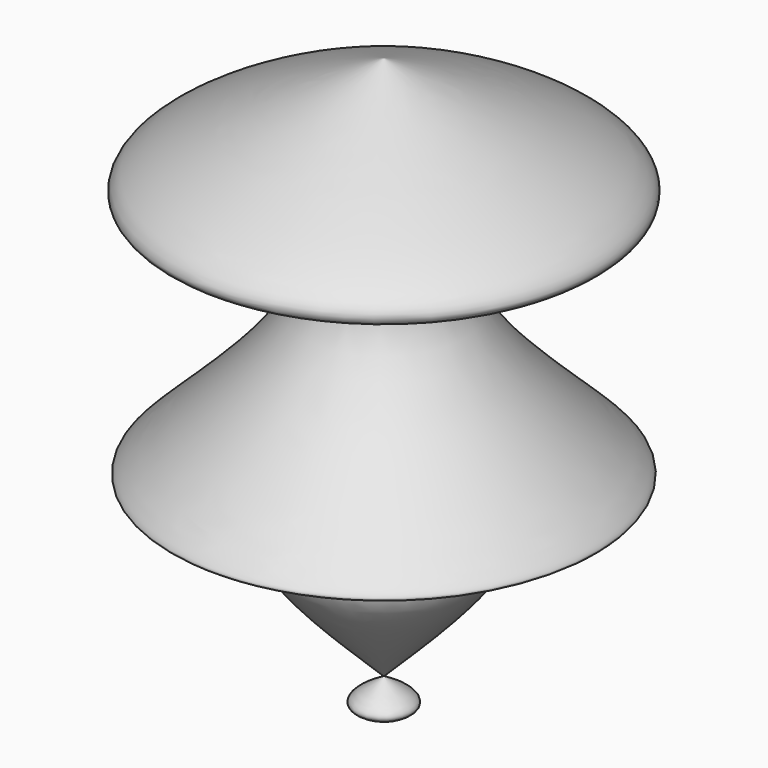
from build123d import *


with BuildPart() as f1:
    # F0 (on Front) → F1 (revolve)
    with BuildSketch(Plane.XZ):
        with BuildLine():
            add(Edge.make_bspline(
                [(0, -76.370537281), (-16.0207875739, -60.5784372992), (-37.6224373403, -39.2851387451), (-13.7985377454, -35.7636424479), (-59.9069397284, -28.1912365888), (-60.2744003148, -23.9233151762), (13.9454492687, 37.6344240351), (-92.9161026921, 36.9201548235), (-33.3799674134, 62.4717348571), (0, 76.7976716161)],
                knots=[0, 0, 0, 0, 0.1723347452, 0.2323677779, 0.3843272668, 0.4225830461, 0.6251850095, 0.7898534712, 1, 1, 1, 1], degree=3))
            Line((0, -76.370537281), (0, 76.7976716161))
        make_face()
    revolve(axis=Axis((0, 0, 0.2135671675), (0, 0, 1)))

    # F2 (on Right) → F3 (revolve)
    with BuildSketch(Plane.YZ):
        with BuildLine():
            add(Edge.make_bspline(
                [(0, -86.2140357494), (3.8821867163, -85.2940249369), (12.0014581241, -83.3698986568), (4.1153875856, -78.7043274523), (0, -76.2695744634)],
                knots=[0, 0, 0, 0, 0.4781447154, 1, 1, 1, 1], degree=3))
            Line((0, -76.2695744634), (0, -86.2140357494))
        make_face()
    revolve(axis=Axis((0, 0, -81.2418051064), (0, 0, -1)))


solid = f1.part
